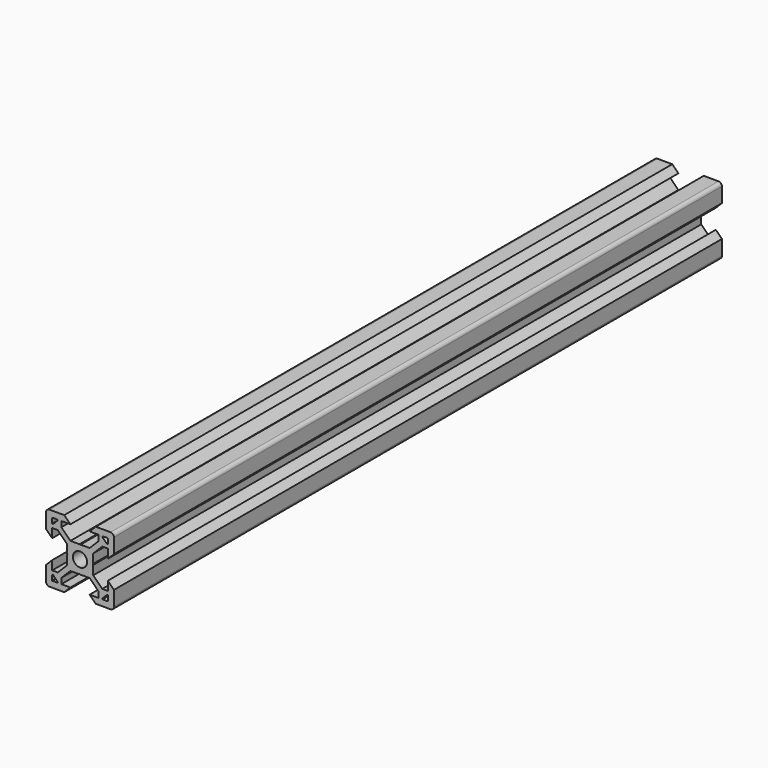
from build123d import *

# Parameters (mm, degrees)
F0_R      = 2.1
F1_DEPTH  = 20
F1_FACE_R = 2.1
F2_DEPTH  = 204


with BuildPart() as f1:
    # F0 (on Front) → F1 (new body)
    with BuildSketch(Plane.XZ):
        with BuildLine():
            Line((-4.64, 10), (-9, 10))
            ThreePointArc((-9, 10), (-9.707107, 9.707107), (-10, 9))
            Line((-10, 9), (-10, 4.64))
            Line((-10, 4.64), (-8.2, 2.84))
            Line((-8.2, 2.84), (-8.2, 5.49934))
            Line((-8.2, 5.49934), (-6.56, 5.49934))
            Line((-6.56, 5.49934), (-3.90066, 2.84))
            Line((-3.90066, 2.84), (-3.90066, 0.15))
            Line((-3.90066, 0.15), (-3.75066, 0))
            Line((-3.75066, 0), (-3.90066, -0.15))
            Line((-3.90066, -0.15), (-3.90066, -2.84))
            Line((-3.90066, -2.84), (-6.56, -5.49934))
            Line((-6.56, -5.49934), (-8.2, -5.49934))
            Line((-8.2, -5.49934), (-8.2, -2.84))
            Line((-8.2, -2.84), (-10, -4.64))
            Line((-10, -4.64), (-10, -9))
            ThreePointArc((-10, -9), (-9.707107, -9.707107), (-9, -10))
            Line((-9, -10), (-4.64, -10))
            Line((-4.64, -10), (-2.84, -8.2))
            Line((-2.84, -8.2), (-5.49934, -8.2))
            Line((-5.49934, -8.2), (-5.49934, -6.56))
            Line((-5.49934, -6.56), (-2.84, -3.90066))
            Line((-2.84, -3.90066), (-0.15, -3.90066))
            Line((-0.15, -3.90066), (0, -3.75066))
            Line((0, -3.75066), (0.15, -3.90066))
            Line((0.15, -3.90066), (2.84, -3.90066))
            Line((2.84, -3.90066), (5.49934, -6.56))
            Line((5.49934, -6.56), (5.49934, -8.2))
            Line((5.49934, -8.2), (2.84, -8.2))
            Line((2.84, -8.2), (4.64, -10))
            Line((4.64, -10), (9, -10))
            ThreePointArc((9, -10), (9.707107, -9.707107), (10, -9))
            Line((10, -9), (10, -4.64))
            Line((10, -4.64), (8.2, -2.84))
            Line((8.2, -2.84), (8.2, -5.49934))
            Line((8.2, -5.49934), (6.56, -5.49934))
            Line((6.56, -5.49934), (3.90066, -2.84))
            Line((3.90066, -2.84), (3.90066, -0.15))
            Line((3.90066, -0.15), (3.75066, 0))
            Line((3.75066, 0), (3.90066, 0.15))
            Line((3.90066, 0.15), (3.90066, 2.84))
            Line((3.90066, 2.84), (6.56, 5.49934))
            Line((6.56, 5.49934), (8.2, 5.49934))
            Line((8.2, 5.49934), (8.2, 2.84))
            Line((8.2, 2.84), (10, 4.64))
            Line((10, 4.64), (10, 9))
            ThreePointArc((10, 9), (9.707107, 9.707107), (9, 10))
            Line((9, 10), (4.64, 10))
            Line((4.64, 10), (2.84, 8.2))
            Line((2.84, 8.2), (5.49934, 8.2))
            Line((5.49934, 8.2), (5.49934, 6.56))
            Line((5.49934, 6.56), (2.84, 3.90066))
            Line((2.84, 3.90066), (0.15, 3.90066))
            Line((0.15, 3.90066), (0, 3.75066))
            Line((0, 3.75066), (-0.15, 3.90066))
            Line((-0.15, 3.90066), (-2.84, 3.90066))
            Line((-2.84, 3.90066), (-5.49934, 6.56))
            Line((-5.49934, 6.56), (-5.49934, 8.2))
            Line((-5.49934, 8.2), (-2.84, 8.2))
            Line((-2.84, 8.2), (-4.64, 10))
        make_face()
        with BuildLine():
            Line((-8.2, -8.2), (-8.2, -6.71))
            ThreePointArc((-8.2, -6.71), (-8.156066, -6.603934), (-8.05, -6.56))
            Line((-8.05, -6.56), (-7.98749, -6.56))
            Line((-7.98749, -6.56), (-6.603934, -7.943556))
            ThreePointArc((-6.603934, -7.943556), (-6.571418, -7.992219), (-6.56, -8.049622))
            Line((-6.56, -8.049622), (-6.56, -8.05))
            ThreePointArc((-6.56, -8.05), (-6.603934, -8.156066), (-6.71, -8.2))
            Line((-6.71, -8.2), (-8.2, -8.2))
        make_face(mode=Mode.SUBTRACT)
        with BuildLine():
            ThreePointArc((6.71, -8.2), (6.603934, -8.156066), (6.56, -8.05))
            Line((6.56, -8.05), (6.56, -7.98749))
            Line((6.56, -7.98749), (7.943556, -6.603934))
            ThreePointArc((7.943556, -6.603934), (7.992219, -6.571418), (8.049622, -6.56))
            Line((8.049622, -6.56), (8.2, -6.56))
            Line((8.2, -6.56), (8.2, -8.05))
            ThreePointArc((8.2, -8.05), (8.156066, -8.156066), (8.05, -8.2))
            Line((8.05, -8.2), (6.71, -8.2))
        make_face(mode=Mode.SUBTRACT)
        with BuildLine():
            ThreePointArc((-8.2, 8.05), (-8.156066, 8.156066), (-8.05, 8.2))
            Line((-8.05, 8.2), (-6.71, 8.2))
            ThreePointArc((-6.71, 8.2), (-6.603934, 8.156066), (-6.56, 8.05))
            Line((-6.56, 8.05), (-6.56, 8.049622))
            ThreePointArc((-6.56, 8.049622), (-6.571418, 7.992219), (-6.603934, 7.943556))
            Line((-6.603934, 7.943556), (-7.943556, 6.603934))
            ThreePointArc((-7.943556, 6.603934), (-7.992219, 6.571418), (-8.049622, 6.56))
            Line((-8.049622, 6.56), (-8.05, 6.56))
            ThreePointArc((-8.05, 6.56), (-8.156066, 6.603934), (-8.2, 6.71))
            Line((-8.2, 6.71), (-8.2, 8.05))
        make_face(mode=Mode.SUBTRACT)
        Circle(F0_R, mode=Mode.SUBTRACT)
        with BuildLine():
            Line((8.2, 8.05), (8.2, 6.71))
            ThreePointArc((8.2, 6.71), (8.156066, 6.603934), (8.05, 6.56))
            Line((8.05, 6.56), (7.98749, 6.56))
            Line((7.98749, 6.56), (6.56, 7.98749))
            Line((6.56, 7.98749), (6.56, 8.05))
            ThreePointArc((6.56, 8.05), (6.603934, 8.156066), (6.71, 8.2))
            Line((6.71, 8.2), (8.05, 8.2))
            ThreePointArc((8.05, 8.2), (8.156066, 8.156066), (8.2, 8.05))
        make_face(mode=Mode.SUBTRACT)
    extrude(amount=F1_DEPTH)

    # F1_face (on face) → F2 (join)
    with BuildSketch(Plane(origin=(-3.9e-05, -20, 0.000435), x_dir=(1, 0, 0), z_dir=(0, -1, 0))):
        with BuildLine():
            Line((2.840039, 3.900225), (0.150039, 3.900225))
            Line((0.150039, 3.900225), (3.9e-05, 3.750225))
            Line((3.9e-05, 3.750225), (-0.149961, 3.900225))
            Line((-0.149961, 3.900225), (-2.839961, 3.900225))
            Line((-2.839961, 3.900225), (-5.499301, 6.559565))
            Line((-5.499301, 6.559565), (-5.499301, 8.199565))
            Line((-5.499301, 8.199565), (-2.839961, 8.199565))
            Line((-2.839961, 8.199565), (-4.639961, 9.999565))
            Line((-4.639961, 9.999565), (-8.999961, 9.999565))
            ThreePointArc((-8.999961, 9.999565), (-9.707068, 9.706672), (-9.999961, 8.999565))
            Line((-9.999961, 8.999565), (-9.999961, 4.639565))
            Line((-9.999961, 4.639565), (-8.199961, 2.839565))
            Line((-8.199961, 2.839565), (-8.199961, 5.498905))
            Line((-8.199961, 5.498905), (-6.559961, 5.498905))
            Line((-6.559961, 5.498905), (-3.900621, 2.839565))
            Line((-3.900621, 2.839565), (-3.900621, 0.149565))
            Line((-3.900621, 0.149565), (-3.750621, -0.000435))
            Line((-3.750621, -0.000435), (-3.900621, -0.150435))
            Line((-3.900621, -0.150435), (-3.900621, -2.840435))
            Line((-3.900621, -2.840435), (-6.559961, -5.499775))
            Line((-6.559961, -5.499775), (-8.199961, -5.499775))
            Line((-8.199961, -5.499775), (-8.199961, -2.840435))
            Line((-8.199961, -2.840435), (-9.999961, -4.640435))
            Line((-9.999961, -4.640435), (-9.999961, -9.000435))
            ThreePointArc((-9.999961, -9.000435), (-9.707068, -9.707542), (-8.999961, -10.000435))
            Line((-8.999961, -10.000435), (-4.639961, -10.000435))
            Line((-4.639961, -10.000435), (-2.839961, -8.200435))
            Line((-2.839961, -8.200435), (-5.499301, -8.200435))
            Line((-5.499301, -8.200435), (-5.499301, -6.560435))
            Line((-5.499301, -6.560435), (-2.839961, -3.901095))
            Line((-2.839961, -3.901095), (-0.149961, -3.901095))
            Line((-0.149961, -3.901095), (3.9e-05, -3.751095))
            Line((3.9e-05, -3.751095), (0.150039, -3.901095))
            Line((0.150039, -3.901095), (2.840039, -3.901095))
            Line((2.840039, -3.901095), (5.499379, -6.560435))
            Line((5.499379, -6.560435), (5.499379, -8.200435))
            Line((5.499379, -8.200435), (2.840039, -8.200435))
            Line((2.840039, -8.200435), (4.640039, -10.000435))
            Line((4.640039, -10.000435), (9.000039, -10.000435))
            ThreePointArc((9.000039, -10.000435), (9.707146, -9.707542), (10.000039, -9.000435))
            Line((10.000039, -9.000435), (10.000039, -4.640435))
            Line((10.000039, -4.640435), (8.200039, -2.840435))
            Line((8.200039, -2.840435), (8.200039, -5.499775))
            Line((8.200039, -5.499775), (6.560039, -5.499775))
            Line((6.560039, -5.499775), (3.900699, -2.840435))
            Line((3.900699, -2.840435), (3.900699, -0.150435))
            Line((3.900699, -0.150435), (3.750699, -0.000435))
            Line((3.750699, -0.000435), (3.900699, 0.149565))
            Line((3.900699, 0.149565), (3.900699, 2.839565))
            Line((3.900699, 2.839565), (6.560039, 5.498905))
            Line((6.560039, 5.498905), (8.200039, 5.498905))
            Line((8.200039, 5.498905), (8.200039, 2.839565))
            Line((8.200039, 2.839565), (10.000039, 4.639565))
            Line((10.000039, 4.639565), (10.000039, 8.999565))
            ThreePointArc((10.000039, 8.999565), (9.707146, 9.706672), (9.000039, 9.999565))
            Line((9.000039, 9.999565), (4.640039, 9.999565))
            Line((4.640039, 9.999565), (2.840039, 8.199565))
            Line((2.840039, 8.199565), (5.499379, 8.199565))
            Line((5.499379, 8.199565), (5.499379, 6.559565))
            Line((5.499379, 6.559565), (2.840039, 3.900225))
        make_face()
        with BuildLine():
            ThreePointArc((-6.559961, -8.050435), (-6.603895, -8.156501), (-6.709961, -8.200435))
            Line((-6.709961, -8.200435), (-8.199961, -8.200435))
            Line((-8.199961, -8.200435), (-8.199961, -6.710435))
            ThreePointArc((-8.199961, -6.710435), (-8.156027, -6.604369), (-8.049961, -6.560435))
            Line((-8.049961, -6.560435), (-7.987451, -6.560435))
            Line((-7.987451, -6.560435), (-6.603895, -7.943991))
            ThreePointArc((-6.603895, -7.943991), (-6.571379, -7.992654), (-6.559961, -8.050057))
            Line((-6.559961, -8.050057), (-6.559961, -8.050435))
        make_face(mode=Mode.SUBTRACT)
        with BuildLine():
            ThreePointArc((6.710039, -8.200435), (6.603973, -8.156501), (6.560039, -8.050435))
            Line((6.560039, -8.050435), (6.560039, -7.987925))
            Line((6.560039, -7.987925), (7.943595, -6.604369))
            ThreePointArc((7.943595, -6.604369), (7.992258, -6.571853), (8.049661, -6.560435))
            Line((8.049661, -6.560435), (8.200039, -6.560435))
            Line((8.200039, -6.560435), (8.200039, -8.050435))
            ThreePointArc((8.200039, -8.050435), (8.156105, -8.156501), (8.050039, -8.200435))
            Line((8.050039, -8.200435), (6.710039, -8.200435))
        make_face(mode=Mode.SUBTRACT)
        with BuildLine():
            ThreePointArc((-8.049961, 6.559565), (-8.156027, 6.603499), (-8.199961, 6.709565))
            Line((-8.199961, 6.709565), (-8.199961, 8.049565))
            ThreePointArc((-8.199961, 8.049565), (-8.156027, 8.155631), (-8.049961, 8.199565))
            Line((-8.049961, 8.199565), (-6.709961, 8.199565))
            ThreePointArc((-6.709961, 8.199565), (-6.603895, 8.155631), (-6.559961, 8.049565))
            Line((-6.559961, 8.049565), (-6.559961, 8.049187))
            ThreePointArc((-6.559961, 8.049187), (-6.571379, 7.991784), (-6.603895, 7.943121))
            Line((-6.603895, 7.943121), (-7.943517, 6.603499))
            ThreePointArc((-7.943517, 6.603499), (-7.99218, 6.570983), (-8.049583, 6.559565))
            Line((-8.049583, 6.559565), (-8.049961, 6.559565))
        make_face(mode=Mode.SUBTRACT)
        with Locations((3.9e-05, -0.000435)):
            Circle(F1_FACE_R, mode=Mode.SUBTRACT)
        with BuildLine():
            Line((8.200039, 8.049565), (8.200039, 6.709565))
            ThreePointArc((8.200039, 6.709565), (8.156105, 6.603499), (8.050039, 6.559565))
            Line((8.050039, 6.559565), (7.987529, 6.559565))
            Line((7.987529, 6.559565), (6.560039, 7.987055))
            Line((6.560039, 7.987055), (6.560039, 8.049565))
            ThreePointArc((6.560039, 8.049565), (6.603973, 8.155631), (6.710039, 8.199565))
            Line((6.710039, 8.199565), (8.050039, 8.199565))
            ThreePointArc((8.050039, 8.199565), (8.156105, 8.155631), (8.200039, 8.049565))
        make_face(mode=Mode.SUBTRACT)
    extrude(amount=F2_DEPTH)


solid = f1.part
